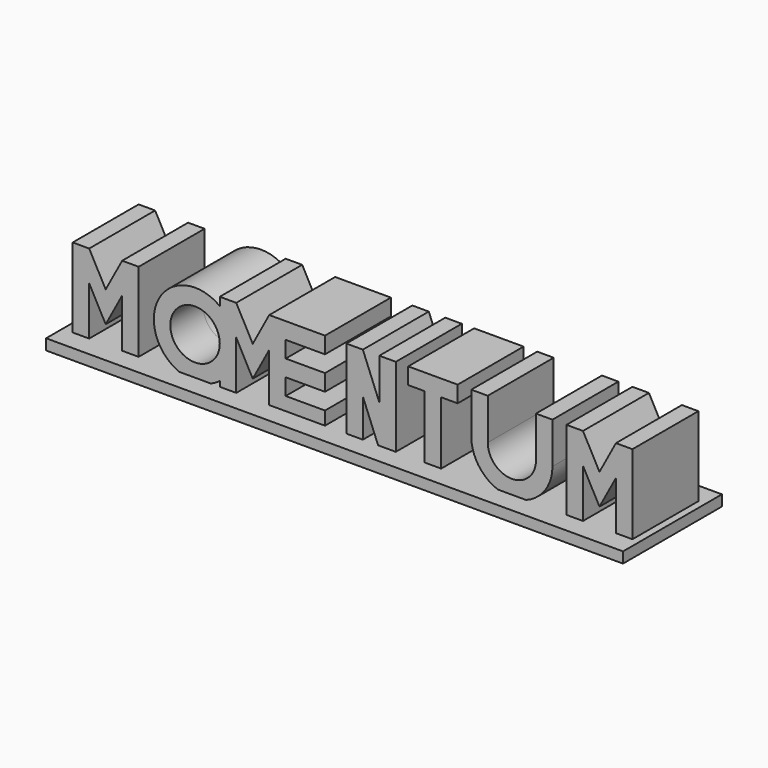
from build123d import *

# Parameters (mm, degrees)
F1_DEPTH = 6.35
F0_R     = 3.81
F0_W     = 6.0548761711
F0_H     = 2.54
F0_W_2   = 2.54
F0_H_2   = 10.16
F2_W     = 88.9036133885
F2_H     = 1.6595339403
F3_DEPTH = 9.525


with BuildPart() as f1:
    # F0 (on Front) → F1 (new body, symmetric)
    with BuildSketch(Plane.XZ):
        Polygon((-42.1707964678, -6.35), (-39.6307964678, -6.35), (-39.6307964678, 1.6256), (-42.1707964678, 6.35), align=None)
        Polygon((-42.1707964678, 6.35), (-39.6307964678, 1.6256), (-39.6307964678, 6.35), align=None)
        Polygon((-39.6307964678, 6.35), (-39.6307964678, 1.6256), (-37.0907964678, -3.0988), (-37.0907964678, 1.6256), align=None)
        Polygon((-37.0907964678, 1.6256), (-37.0907964678, -3.0988), (-34.5507964678, 1.6256), (-34.5507964678, 6.35), align=None)
        Polygon((-34.5507964678, 6.35), (-34.5507964678, 1.6256), (-32.0107964678, 6.35), align=None)
        Polygon((-34.5507964678, 1.6256), (-34.5507964678, -6.35), (-32.0107964678, -6.35), (-32.0107964678, 6.35), align=None)
    extrude(amount=F1_DEPTH, both=True)


with BuildPart() as f1b:
    # F0 (on Front) → F1, piece 2 (new body, symmetric)
    with BuildSketch(Plane.XZ):
        with BuildLine():
            ThreePointArc((-23.3206523725, 6.35), (-29.6706523725, 0), (-23.3206523725, -6.35))
            ThreePointArc((-23.3206523725, -6.35), (-21.3126060583, -6.0241389426), (-19.5106523725, -5.08))
            Line((-19.5106523725, -5.08), (-19.5106523725, 0))
            Line((-19.5106523725, 0), (-19.5106523725, 5.08))
            ThreePointArc((-19.5106523725, 5.08), (-21.3126060583, 6.0241389426), (-23.3206523725, 6.35))
        make_face()
        with Locations((-23.3206523725, 0)):
            Circle(F0_R, mode=Mode.SUBTRACT)
        with BuildLine():
            ThreePointArc((-16.9706523725, 0), (-17.6410397097, 2.8398063314), (-19.5106523725, 5.08))
            Line((-19.5106523725, 5.08), (-19.5106523725, 0))
            Line((-19.5106523725, 0), (-16.9706523725, 0))
        make_face()
        with BuildLine():
            Line((-19.5106523725, 0), (-19.5106523725, -5.08))
            ThreePointArc((-19.5106523725, -5.08), (-17.6410397097, -2.8398063314), (-16.9706523725, 0))
            Line((-16.9706523725, 0), (-19.5106523725, 0))
        make_face()
        with BuildLine():
            Line((-19.5106523725, -5.08), (-19.5106523725, -6.35))
            Line((-19.5106523725, -6.35), (-16.9706523725, -6.35))
            Line((-16.9706523725, -6.35), (-16.9706523725, 0))
            ThreePointArc((-16.9706523725, 0), (-17.6410397097, -2.8398063314), (-19.5106523725, -5.08))
        make_face()
        Polygon((-16.9706523725, 6.35), (-19.5106523725, 6.35), (-16.9706523725, 1.621060252), align=None)
        with BuildLine():
            Line((-16.9706523725, 1.621060252), (-19.5106523725, 6.35))
            Line((-19.5106523725, 6.35), (-19.5106523725, 5.08))
            ThreePointArc((-19.5106523725, 5.08), (-17.6410397097, 2.8398063314), (-16.9706523725, 0))
            Line((-16.9706523725, 0), (-16.9706523725, 1.621060252))
        make_face()
        Polygon((-14.4306523725, 1.621060252), (-16.9706523725, 6.35), (-16.9706523725, 1.621060252), (-14.4306523725, -3.1078794961), align=None)
        Polygon((-11.8906523725, 6.35), (-14.4306523725, 1.621060252), (-14.4306523725, -3.1078794961), (-11.8906523725, 1.621060252), (-11.8906523725, 3.81), align=None)
        Polygon((-9.3506523725, 6.35), (-11.8906523725, 6.35), (-11.8906523725, 3.81), (-10.7149328125, 3.81), align=None)
        Polygon((-11.8906523725, 3.81), (-11.8906523725, 1.621060252), (-10.7149328125, 3.81), align=None)
        with Locations((-6.323214287, 5.08)):
            Rectangle(F0_W, F0_H)
        Polygon((-10.7149328125, 3.81), (-11.8906523725, 1.621060252), (-11.8906523725, 1.27), (-9.3506523725, 1.27), (-9.3506523725, 3.81), align=None)
        Polygon((-9.3506523725, 3.81), (-9.3506523725, 6.35), (-10.7149328125, 3.81), align=None)
        with Locations((-10.6206523725, 0)):
            Rectangle(F0_W_2, F0_H)
        with Locations((-6.323214287, 0)):
            Rectangle(F0_W, F0_H)
        with Locations((-10.6206523725, -2.54)):
            Rectangle(F0_W_2, F0_H)
        with Locations((-10.6206523725, -5.08)):
            Rectangle(F0_W_2, F0_H)
        with Locations((-6.323214287, -5.08)):
            Rectangle(F0_W, F0_H)
    extrude(amount=F1_DEPTH, both=True)


with BuildPart() as f1c:
    # F0 (on Front) → F1, piece 3 (new body, symmetric)
    with BuildSketch(Plane.XZ):
        Polygon((0, 6.35), (0, -6.35), (2.54, -6.35), (2.54, 0), align=None)
        Polygon((2.54, 6.35), (0, 6.35), (2.54, 0), align=None)
        Polygon((5.08, 0), (2.54, 6.35), (2.54, 0), (5.08, -6.35), align=None)
        Polygon((5.08, 0), (5.08, -6.35), (7.62, -6.35), align=None)
        Polygon((5.08, 6.35), (5.08, 0), (7.62, -6.35), (7.62, 6.35), align=None)
    extrude(amount=F1_DEPTH, both=True)


with BuildPart() as f1d:
    # F0 (on Front) → F1, piece 4 (new body, symmetric)
    with BuildSketch(Plane.XZ):
        with Locations((13.3382392576, -1.27)):
            Rectangle(F0_W_2, F0_H_2)
        with Locations((15.8782392576, 5.08)):
            Rectangle(F0_W_2, F0_H)
        with Locations((13.3382392576, 5.08)):
            Rectangle(F0_W_2, F0_H)
        with Locations((10.7982392576, 5.08)):
            Rectangle(F0_W_2, F0_H)
    extrude(amount=F1_DEPTH, both=True)


with BuildPart() as f1e:
    # F0 (on Front) → F1, piece 5 (new body, symmetric)
    with BuildSketch(Plane.XZ):
        with BuildLine():
            Line((31.7550115287, 0), (31.7550115287, 6.35))
            Line((31.7550115287, 6.35), (29.2150115287, 6.35))
            Line((29.2150115287, 6.35), (29.2150115287, 0))
            ThreePointArc((29.2150115287, 0), (25.5010910332, -3.7139204955), (21.7871705377, 0))
            Line((21.7871705377, 0), (21.7871705377, 6.35))
            Line((21.7871705377, 6.35), (19.2471705377, 6.35))
            Line((19.2471705377, 6.35), (19.2471705377, 0))
            ThreePointArc((19.2471705377, 0), (25.5010910332, -6.2539204955), (31.7550115287, 0))
        make_face()
    extrude(amount=F1_DEPTH, both=True)


with BuildPart() as f1f:
    # F0 (on Front) → F1, piece 6 (new body, symmetric)
    with BuildSketch(Plane.XZ):
        Polygon((33.9198186994, 6.35), (33.9198186994, -6.35), (36.4598186994, -6.35), (36.4598186994, 1.6256), align=None)
        Polygon((36.4598186994, 6.35), (33.9198186994, 6.35), (36.4598186994, 1.6256), align=None)
        Polygon((36.4598186994, 6.35), (36.4598186994, 1.6256), (38.9998186994, -3.0988), (38.9998186994, 1.6256), align=None)
        Polygon((38.9998186994, 1.6256), (38.9998186994, -3.0988), (41.5398186994, 1.6256), (41.5398186994, 6.35), align=None)
        Polygon((41.5398186994, 6.35), (41.5398186994, 1.6256), (44.0798186994, 6.35), align=None)
        Polygon((41.5398186994, 1.6256), (41.5398186994, -6.35), (44.0798186994, -6.35), (44.0798186994, 6.35), align=None)
    extrude(amount=F1_DEPTH, both=True)


with BuildPart() as f3:
    # F2 (on Front) → F3 (new body, symmetric)
    with BuildSketch(Plane.XZ):
        with Locations((0.7174350321, -6.6974051297)):
            Rectangle(F2_W, F2_H)
    extrude(amount=F3_DEPTH, both=True)


solid = Compound([f1.part, f1b.part, f1c.part, f1d.part, f1e.part, f1f.part, f3.part])
